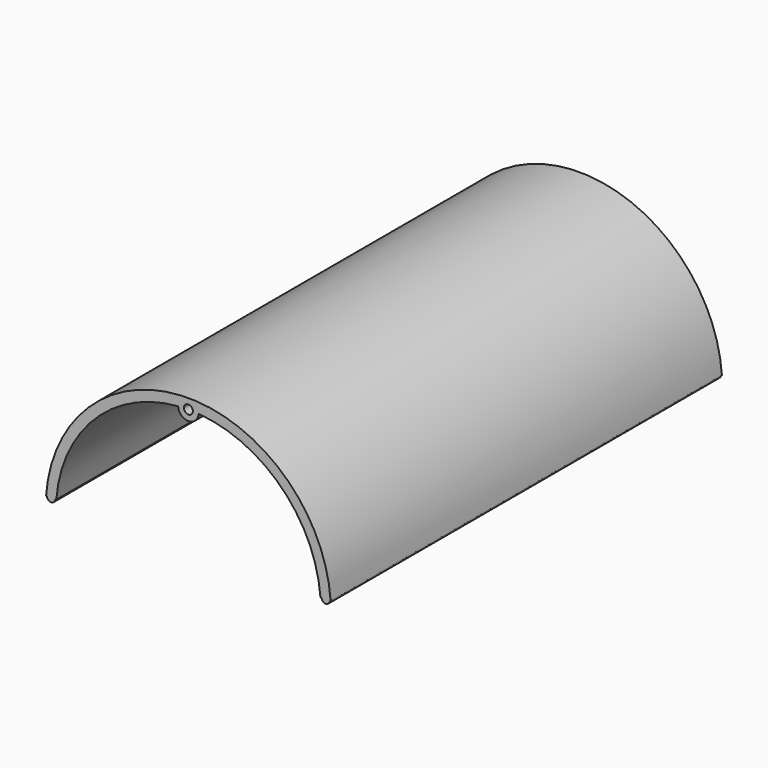
from build123d import *

# Parameters (mm, degrees)
F0_R     = 88.9
F1_DEPTH = 152.4
F4_DEPTH = 152.401
F5_DEPTH = 152.401
F7_DEPTH = 152.401


with BuildPart() as f1:
    # F0 (on Front) → F1 (new body)
    with BuildSketch(Plane.XZ):
        Circle(F0_R)
    extrude(amount=-F1_DEPTH)

    # F3 (on face) → F4 (cut, through all)
    with BuildSketch(Plane.XZ):
        with BuildLine():
            ThreePointArc((6.3453015162, 82.3057692308), (0, 76.2), (-6.3453015162, 82.3057692308))
            ThreePointArc((-6.3453015162, 82.3057692308), (-58.3716647869, 58.3716647869), (-82.3057692308, 6.3453015162))
            ThreePointArc((-82.3057692308, 6.3453015162), (-77.974338005, 4.4029328075), (-76.2, 0))
            ThreePointArc((-76.2, 0), (-77.974338005, -4.4029328075), (-82.3057692308, -6.3453015162))
            ThreePointArc((-82.3057692308, -6.3453015162), (-58.3716647869, -58.3716647869), (-6.3453015162, -82.3057692308))
            ThreePointArc((-6.3453015162, -82.3057692308), (0, -76.2), (6.3453015162, -82.3057692308))
            ThreePointArc((6.3453015162, -82.3057692308), (58.3716647869, -58.3716647869), (82.3057692308, -6.3453015162))
            ThreePointArc((82.3057692308, -6.3453015162), (76.2, 0), (82.3057692308, 6.3453015162))
            ThreePointArc((82.3057692308, 6.3453015162), (58.3716647869, 58.3716647869), (6.3453015162, 82.3057692308))
        make_face()
    extrude(amount=-F4_DEPTH, mode=Mode.SUBTRACT)

    # F2 (on face) → F5 (cut, through all)
    with BuildSketch(Plane.XZ):
        with BuildLine():
            ThreePointArc((-2.7935998838, 82.5027169231), (-1.9588679235, 80.5576966952), (0, 79.756))
            ThreePointArc((0, 79.756), (1.9588679235, 80.5576966952), (2.7935998838, 82.5027169231))
            ThreePointArc((2.7935998838, 82.5027169231), (2.7938999692, 82.5263576151), (2.794, 82.55))
            ThreePointArc((2.794, 82.55), (-0.0236423849, 85.3438999692), (-2.7935998838, 82.5027169231))
        make_face()
        with BuildLine():
            ThreePointArc((-82.5027169231, 2.7935998838), (-85.344, 0), (-82.5027169231, -2.7935998838))
            ThreePointArc((-82.5027169231, -2.7935998838), (-80.5576966952, -1.9588679235), (-79.756, 0))
            ThreePointArc((-79.756, 0), (-80.5576966952, 1.9588679235), (-82.5027169231, 2.7935998838))
        make_face()
        with BuildLine():
            ThreePointArc((79.756, 0), (80.5576966952, -1.9588679235), (82.5027169231, -2.7935998838))
            ThreePointArc((82.5027169231, -2.7935998838), (84.5088679235, -1.9923033048), (85.344, 0))
            ThreePointArc((85.344, 0), (84.5088679235, 1.9923033048), (82.5027169231, 2.7935998838))
            ThreePointArc((82.5027169231, 2.7935998838), (80.5576966952, 1.9588679235), (79.756, 0))
        make_face()
        with BuildLine():
            ThreePointArc((2.794, -82.55), (2.7938999692, -82.5263576151), (2.7935998838, -82.5027169231))
            ThreePointArc((2.7935998838, -82.5027169231), (1.9588679235, -80.5576966952), (0, -79.756))
            ThreePointArc((0, -79.756), (-1.9588679235, -80.5576966952), (-2.7935998838, -82.5027169231))
            ThreePointArc((-2.7935998838, -82.5027169231), (-0.0236423849, -85.3438999692), (2.794, -82.55))
        make_face()
    extrude(amount=-F5_DEPTH, mode=Mode.SUBTRACT)

    # F6 (on face) → F7 (cut, through all)
    with BuildSketch(Plane.XZ):
        with BuildLine():
            Line((82.55, 0), (76.2, 0))
            ThreePointArc((76.2, 0), (77.974338005, -4.4029328075), (82.3057692308, -6.3453015162))
            ThreePointArc((82.3057692308, -6.3453015162), (58.3716647869, -58.3716647869), (6.3453015162, -82.3057692308))
            ThreePointArc((6.3453015162, -82.3057692308), (0, -76.2), (-6.3453015162, -82.3057692308))
            ThreePointArc((-6.3453015162, -82.3057692308), (-58.3716647869, -58.3716647869), (-82.3057692308, -6.3453015162))
            ThreePointArc((-82.3057692308, -6.3453015162), (-77.974338005, -4.4029328075), (-76.2, 0))
            Line((-76.2, 0), (-88.9, 0))
            Line((-88.9, 0), (-104.8936669013, -139.8783236514))
            Line((-104.8936669013, -139.8783236514), (114.9751045783, -122.2419444763))
            Line((114.9751045783, -122.2419444763), (88.9, 0))
            Line((88.9, 0), (82.55, 0))
        make_face()
        Polygon((88.9, 6.35), (88.9, 0), (114.9751045783, -122.2419444763), (179.3332546949, -117.0795708895), (106.4055040479, 6.35), align=None)
        with BuildLine():
            ThreePointArc((82.3057692308, 6.3453015162), (77.974338005, 4.4029328075), (76.2, 0))
            Line((76.2, 0), (82.55, 0))
            Line((82.55, 0), (88.9, 0))
            Line((88.9, 0), (88.9, 6.35))
            Line((88.9, 6.35), (88.138, 6.35))
            ThreePointArc((88.138, 6.35), (85.598, 3.81), (83.058, 6.35))
            Line((83.058, 6.35), (82.55, 6.35))
            Line((82.55, 6.35), (82.3054068698, 6.35))
            ThreePointArc((82.3054068698, 6.35), (82.3055880838, 6.3476507607), (82.3057692308, 6.3453015162))
        make_face()
        with BuildLine():
            Line((-88.9, 0), (-76.2, 0))
            ThreePointArc((-76.2, 0), (-77.974338005, 4.4029328075), (-82.3057692308, 6.3453015162))
            ThreePointArc((-82.3057692308, 6.3453015162), (-82.3055880838, 6.3476507607), (-82.3054068698, 6.35))
            Line((-82.3054068698, 6.35), (-82.55, 6.35))
            Line((-82.55, 6.35), (-83.058, 6.35))
            ThreePointArc((-83.058, 6.35), (-85.598, 3.81), (-88.138, 6.35))
            Line((-88.138, 6.35), (-88.9, 6.35))
            Line((-88.9, 6.35), (-88.9, 0))
        make_face()
    extrude(amount=-F7_DEPTH, mode=Mode.SUBTRACT)

    # F8: F1 across face


with BuildPart() as f1_1:
    add(f1.part)
    add(f1.part.mirror(Plane.XZ))


solid = f1_1.part
